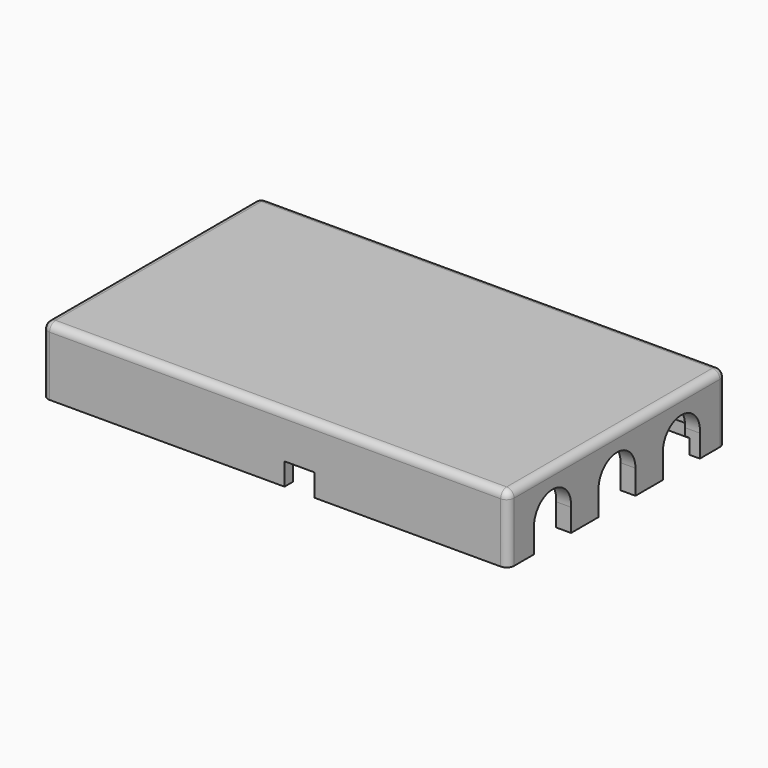
from build123d import *

# Parameters (mm, degrees)
SKETCH_W        = 62.5
SKETCH_H        = 36.5
PAD_DEPTH       = 9
SKETCH001_W     = 58.5
SKETCH001_H     = 32.5
POCKET_DEPTH    = 7
SKETCH002_R     = 3.09059
PAD001_DEPTH    = 6.5
SKETCH003_R     = 1.8
POCKET001_DEPTH = 3.5
SKETCH004_W     = 4
SKETCH004_H     = 2.125
POCKET002_DEPTH = 3
SKETCH005_W     = 9.2
SKETCH005_H     = 4.7
POCKET003_DEPTH = 5
FILLET_R        = 1.2
FILLET001_R     = 1.2
POCKET004_DEPTH = 5
SKETCH007_W     = 30.5
SKETCH007_H     = 0.6
POCKET005_DEPTH = 2
SKETCH008_W     = 58.5
SKETCH008_H     = 0.6
POCKET006_DEPTH = 2
SKETCH009_W     = 24
SKETCH009_H     = 0.6
POCKET007_DEPTH = 2
SKETCH010_W     = 0.6
SKETCH010_H     = 3
POCKET008_DEPTH = 2
SKETCH011_W     = 0.6
SKETCH011_H     = 3
POCKET009_DEPTH = 2
FILLET002_R     = 2
FILLET003_R     = 1


with BuildPart() as part:
    # Sketch → Pad (new body)
    with BuildSketch(Plane.XY):
        Rectangle(SKETCH_W, SKETCH_H)
    extrude(amount=PAD_DEPTH)

    # Sketch001 (on Face5 of Pad) → Pocket (cut)
    with BuildSketch(Plane(origin=(0, 0, 0), x_dir=(1, 0, 0), z_dir=(0, 0, -1))):
        Rectangle(SKETCH001_W, SKETCH001_H)
    extrude(amount=-POCKET_DEPTH, mode=Mode.SUBTRACT)

    # Sketch002 (on Face11 of Pocket) → Pad001 (join)
    with BuildSketch(Plane(origin=(0, 0, 7), x_dir=(1, 0, 0), z_dir=(0, 0, -1))):
        with Locations((-4.037531, 0)):
            Circle(SKETCH002_R)
    extrude(amount=PAD001_DEPTH)

    # Sketch003 (on Face13 of Pad001) → Pocket001 (cut)
    with BuildSketch(Plane(origin=(0, 0, 0.5), x_dir=(1, 0, 0), z_dir=(0, 0, -1))):
        with Locations((-4.053153, 0)):
            Circle(SKETCH003_R)
    extrude(amount=-POCKET001_DEPTH, mode=Mode.SUBTRACT)

    # Sketch004 (on Face4 of Pocket001) → Pocket002 (cut)
    with BuildSketch(Plane(origin=(0, 0, 0), x_dir=(1, 0, 0), z_dir=(0, 0, -1))):
        with Locations((3.25, 17.240923)):
            Rectangle(SKETCH004_W, SKETCH004_H)
    extrude(amount=-POCKET002_DEPTH, mode=Mode.SUBTRACT)

    # Sketch005 (on Face1 of Pocket002) → Pocket003 (cut)
    with BuildSketch(Plane(origin=(-31.25, 0, 0), x_dir=(0, -1, 0), z_dir=(-1, 0, 0))):
        with Locations((0, 2.35)):
            Rectangle(SKETCH005_W, SKETCH005_H)
    extrude(amount=-POCKET003_DEPTH, mode=Mode.SUBTRACT)

    # Fillet
    fillet_edges = [part.edges().sort_by_distance(p)[0] for p in [
        (-30.25, -4.6, 4.7),
    ]]
    fillet(fillet_edges, radius=FILLET_R)

    # Fillet001
    fillet001_edges = [part.edges().sort_by_distance(p)[0] for p in [
        (-30.25, 4.6, 4.7),
    ]]
    fillet(fillet001_edges, radius=FILLET001_R)

    # Sketch006 (on Face13 of Fillet001) → Pocket004 (cut)
    with BuildSketch(Plane.YZ.offset(31.25)):
        with BuildLine():
            ThreePointArc((3.1, 3.258545), (0.041455, 6.4), (-3.1, 3.341455))
            Line((-3.1, 3.341455), (-3.1, 0))
            Line((-3.1, 0), (3.1, 0))
            Line((3.1, 3.258545), (3.1, 0))
        make_face()
        with BuildLine():
            ThreePointArc((-7.7, 3.041637), (-10.800001, 6.410748), (-13.9, 3.041636))
            Line((-13.9, 3.041636), (-13.9, 0))
            Line((-7.7, 0), (-13.9, 0))
            Line((-7.7, 3.041637), (-7.7, 0))
        make_face()
        with BuildLine():
            ThreePointArc((13.9, 3.012545), (10.799999, 6.413299), (7.7, 3.012544))
            Line((7.7, 3.012544), (7.7, 0))
            Line((13.9, 0), (7.7, 0))
            Line((13.9, 3.012545), (13.9, 0))
        make_face()
    extrude(amount=-POCKET004_DEPTH, mode=Mode.SUBTRACT)

    # Sketch007 (on Face8 of Pocket004) → Pocket005 (cut)
    with BuildSketch(Plane(origin=(0, 0, 0), x_dir=(1, 0, 0), z_dir=(0, 0, -1))):
        with Locations((-14, 16.55)):
            Rectangle(SKETCH007_W, SKETCH007_H)
    extrude(amount=-POCKET005_DEPTH, mode=Mode.SUBTRACT)

    # Sketch008 (on Face7 of Pocket004) → Pocket006 (cut)
    with BuildSketch(Plane(origin=(0, 0, 0), x_dir=(1, 0, 0), z_dir=(0, 0, -1))):
        with Locations((0, -16.55)):
            Rectangle(SKETCH008_W, SKETCH008_H)
    extrude(amount=-POCKET006_DEPTH, mode=Mode.SUBTRACT)

    # Sketch009 (on Face19 of Pocket004) → Pocket007 (cut)
    with BuildSketch(Plane(origin=(0, 0, 0), x_dir=(1, 0, 0), z_dir=(0, 0, -1))):
        with Locations((17.25, 16.55)):
            Rectangle(SKETCH009_W, SKETCH009_H)
    extrude(amount=-POCKET007_DEPTH, mode=Mode.SUBTRACT)

    # Sketch010 (on Face22 of Pocket007) → Pocket008 (cut)
    with BuildSketch(Plane(origin=(0, 0, 0), x_dir=(1, 0, 0), z_dir=(0, 0, -1))):
        with Locations((29.55, 15.35)):
            Rectangle(SKETCH010_W, SKETCH010_H)
    extrude(amount=-POCKET008_DEPTH, mode=Mode.SUBTRACT)

    # Sketch011 (on Face7 of Pocket008) → Pocket009 (cut)
    with BuildSketch(Plane(origin=(0, 0, 0), x_dir=(1, 0, 0), z_dir=(0, 0, -1))):
        with Locations((29.55, -15.35)):
            Rectangle(SKETCH011_W, SKETCH011_H)
    extrude(amount=-POCKET009_DEPTH, mode=Mode.SUBTRACT)

    # Fillet002
    fillet002_edges = [part.edges().sort_by_distance(p)[0] for p in [
        (-7.128121, 0, 7),
    ]]
    fillet(fillet002_edges, radius=FILLET002_R)

    # Fillet003
    fillet003_edges = [part.edges().sort_by_distance(p)[0] for p in [
        (31.25, -18.25, 4.5),
        (0, -18.25, 9),
        (31.25, 0, 9),
        (31.25, 18.25, 4.5),
        (0, 18.25, 9),
        (-31.25, 18.25, 4.5),
        (-31.25, 0, 9),
        (-31.25, -18.25, 4.5),
    ]]
    fillet(fillet003_edges, radius=FILLET003_R)


solid = part.part
